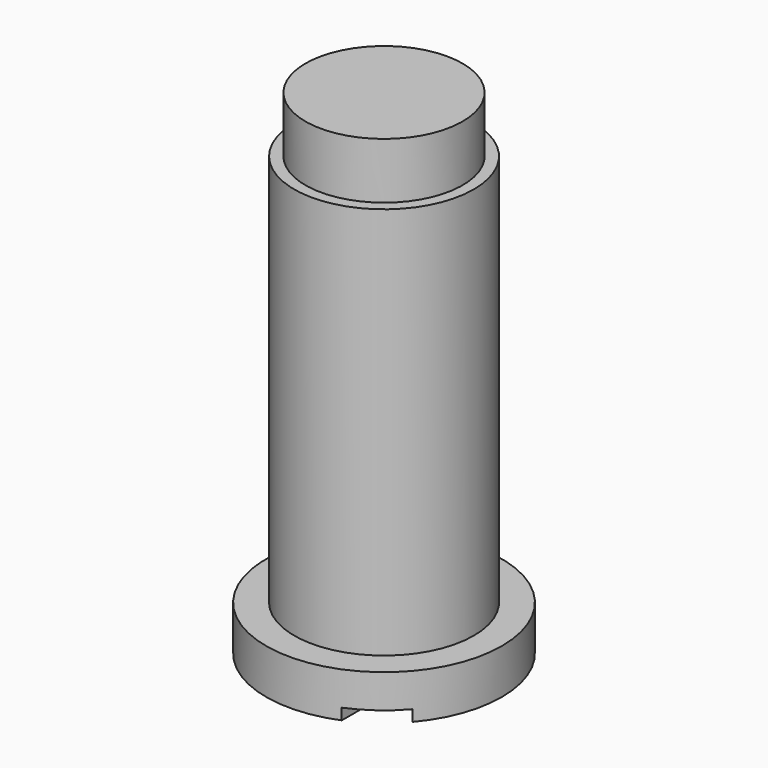
from build123d import *

# Parameters (mm, degrees)
F0_R     = 10.5
F1_DEPTH = 4
F2_R     = 8
F3_DEPTH = 39
F4_W     = 7
F4_H     = 5
F6_W     = 4
F6_H     = 24.978078
F7_DEPTH = 1


with BuildPart() as f1:
    # F0 (on Top) → F1 (new body)
    with BuildSketch(Plane.XY):
        Circle(F0_R)
    extrude(amount=F1_DEPTH)

    # F2 (on Top) → F3 (join)
    with BuildSketch(Plane.XY):
        Circle(F2_R)
    extrude(amount=F3_DEPTH)

    # F4 (on Right) → F5 (revolve)
    with BuildSketch(Plane.YZ):
        with Locations((3.5, 41.5)):
            Rectangle(F4_W, F4_H)
    revolve(axis=Axis((0, 0, 41.5), (0, 0, -1)))

    # F6 (on Top) → F7 (cut)
    with BuildSketch(Plane.XY):
        with Locations((6, 1.013985)):
            Rectangle(F6_W, F6_H)
    extrude(amount=F7_DEPTH, mode=Mode.SUBTRACT)


solid = f1.part
